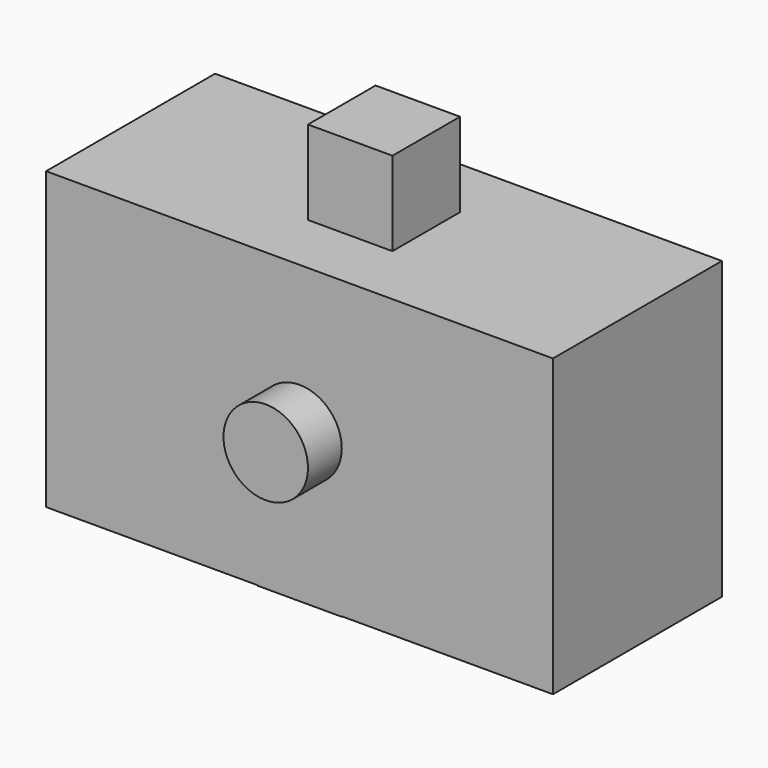
from build123d import *

# Parameters (mm, degrees)
F0_R     = 12.7
F1_DEPTH = 63.5
F2_DEPTH = 76.2
F3_W     = 25.4
F3_H     = 25.4
F4_DEPTH = 12.7


with BuildPart() as f1:
    # F0 (on Front) → F1 (new body)
    with BuildSketch(Plane.XZ):
        Polygon((-12.7, 44.45), (-76.2, 44.45), (-76.2, -44.45), (76.2, -44.45), (76.2, 44.45), (12.7, 44.45), align=None)
        Circle(F0_R, mode=Mode.SUBTRACT)
    extrude(amount=F1_DEPTH)

    # F0 (on Front) → F2 (join)
    with BuildSketch(Plane.XZ):
        Circle(F0_R)
    extrude(amount=F2_DEPTH)

    # F3 (on Right) → F4 (join, symmetric)
    with BuildSketch(Plane.YZ):
        Polygon((-44.45, 44.316916), (-63.5, 44.316916), (-63.5, -44.583084), (0, -44.583084), (0, 44.316916), (-19.05, 44.316916), align=None)
        with Locations((-31.75, 57.016916)):
            Rectangle(F3_W, F3_H)
    extrude(amount=F4_DEPTH, both=True)


solid = f1.part
